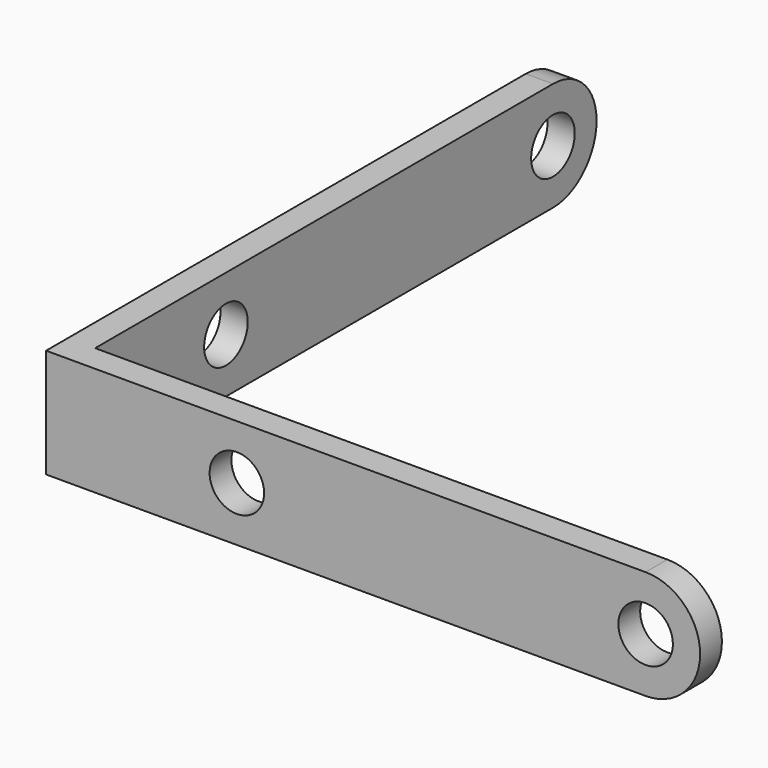
from build123d import *

# Parameters (mm, degrees)
SKETCH115_R            = 1
PAD074_DEPTH           = 1
SKETCH116_R            = 1
PAD075_DEPTH           = 1
FUSION_PLACEMENT_ANGLE = 90


with BuildPart() as flat:
    # Sketch115 → Pad074 (new body)
    with BuildSketch(Plane.XY):
        with BuildLine():
            Line((0, 22), (0, 0))
            Line((0, 0), (4, 0))
            Line((4, 0), (4, 22))
            ThreePointArc((4, 22), (2, 24), (0, 22))
        make_face()
        with Locations((2, 22)):
            Circle(SKETCH115_R, mode=Mode.SUBTRACT)
        with Locations((2, 7)):
            Circle(SKETCH115_R, mode=Mode.SUBTRACT)
    extrude(amount=PAD074_DEPTH)


with BuildPart() as high:
    # Pad075 base: copy of Flat
    add(flat.part)

    # Sketch116 → Pad075 (new body)
    with BuildSketch(Plane.XZ.offset(-1)):
        with BuildLine():
            Line((0, 22), (0, 0))
            Line((0, 0), (4, 0))
            Line((4, 0), (4, 22))
            ThreePointArc((4, 22), (2, 24), (0, 22))
        make_face()
        with Locations((2, 22)):
            Circle(SKETCH116_R, mode=Mode.SUBTRACT)
        with Locations((2, 7)):
            Circle(SKETCH116_R, mode=Mode.SUBTRACT)
    extrude(amount=PAD075_DEPTH)


with BuildPart() as fusion:
    # Fusion base: copy of Flat
    add(flat.part)

    # Fusion: union High
    add(high.part)


with BuildPart() as fusion_1:
    # Fusion placement: moved
    add(fusion.part.moved(Location((2, 0, 52))).rotate(Axis((2, 0, 52), (0, 1, 0)), FUSION_PLACEMENT_ANGLE))


solid = fusion_1.part
